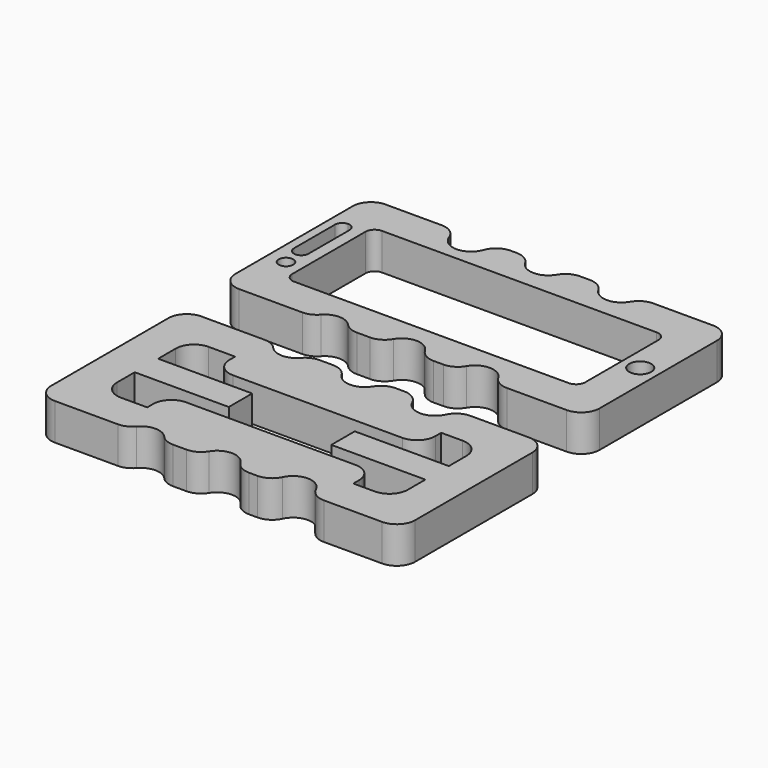
from build123d import *

# Parameters (mm, degrees)
F0_R     = 2
F0_R_2   = 3
F1_DEPTH = 10


with BuildPart() as f1:
    # F0 (on Top) → F1 (new body)
    with BuildSketch(Plane.XY):
        with BuildLine():
            Line((-31.744891, 31.276881), (-47.016129, 31.276881))
            ThreePointArc((-47.016129, 31.276881), (-50.551663, 29.812415), (-52.016129, 26.276881))
            Line((-52.016129, 26.276881), (-52.016129, -13.723119))
            ThreePointArc((-52.016129, -13.723119), (-50.551663, -17.258653), (-47.016129, -18.723119))
            Line((-47.016129, -18.723119), (-29.744406, -18.723119))
            ThreePointArc((-29.744406, -18.723119), (-27.709536, -18.290318), (-26.026944, -17.06684))
            ThreePointArc((-26.026944, -17.06684), (-22.309481, -15.410562), (-18.592019, -17.06684))
            ThreePointArc((-18.592019, -17.06684), (-16.909426, -18.290318), (-14.874556, -18.723119))
            Line((-14.874556, -18.723119), (-11.263087, -18.723119))
            ThreePointArc((-11.263087, -18.723119), (-8.763087, -18.053246), (-6.93296, -16.223119))
            ThreePointArc((-6.93296, -16.223119), (-2.602833, -13.723119), (1.727294, -16.223119))
            ThreePointArc((1.727294, -16.223119), (3.557421, -18.053246), (6.057421, -18.723119))
            Line((6.057421, -18.723119), (8.736913, -18.723119))
            ThreePointArc((8.736913, -18.723119), (11.236913, -18.053246), (13.06704, -16.223119))
            ThreePointArc((13.06704, -16.223119), (17.397167, -13.723119), (21.727294, -16.223119))
            ThreePointArc((21.727294, -16.223119), (23.557421, -18.053246), (26.057421, -18.723119))
            Line((26.057421, -18.723119), (42.397167, -18.723119))
            ThreePointArc((42.397167, -18.723119), (45.932701, -17.258653), (47.397167, -13.723119))
            Line((47.397167, -13.723119), (47.397167, 26.276881))
            ThreePointArc((47.397167, 26.276881), (45.932701, 29.812415), (42.397167, 31.276881))
            Line((42.397167, 31.276881), (26.057421, 31.276881))
            ThreePointArc((26.057421, 31.276881), (23.557421, 30.607008), (21.727294, 28.776881))
            ThreePointArc((21.727294, 28.776881), (17.397167, 26.276881), (13.06704, 28.776881))
            ThreePointArc((13.06704, 28.776881), (11.236913, 30.607008), (8.736913, 31.276881))
            Line((8.736913, 31.276881), (6.057421, 31.276881))
            ThreePointArc((6.057421, 31.276881), (3.557421, 30.607008), (1.727294, 28.776881))
            ThreePointArc((1.727294, 28.776881), (-2.602833, 26.276881), (-6.93296, 28.776881))
            ThreePointArc((-6.93296, 28.776881), (-8.763087, 30.607008), (-11.263087, 31.276881))
            Line((-11.263087, 31.276881), (-12.874071, 31.276881))
            ThreePointArc((-12.874071, 31.276881), (-15.765317, 30.356182), (-17.591776, 27.93316))
            ThreePointArc((-17.591776, 27.93316), (-22.309481, 24.589438), (-27.027186, 27.93316))
            ThreePointArc((-27.027186, 27.93316), (-28.853645, 30.356182), (-31.744891, 31.276881))
        make_face()
        with Locations((-47.016129, -2.723119)):
            Circle(F0_R, mode=Mode.SUBTRACT)
        with BuildLine():
            ThreePointArc((-47.648095, 1.276881), (-49.062308, 1.862667), (-49.648095, 3.276881))
            Line((-49.648095, 3.276881), (-49.648095, 17.276881))
            ThreePointArc((-49.648095, 17.276881), (-49.062308, 18.691095), (-47.648095, 19.276881))
            ThreePointArc((-47.648095, 19.276881), (-46.233881, 18.691095), (-45.648095, 17.276881))
            Line((-45.648095, 17.276881), (-45.648095, 3.276881))
            ThreePointArc((-45.648095, 3.276881), (-46.233881, 1.862667), (-47.648095, 1.276881))
        make_face(mode=Mode.SUBTRACT)
        with BuildLine():
            Line((-42.516129, -6.223119), (-42.516129, 18.776881))
            ThreePointArc((-42.516129, 18.776881), (-41.783896, 20.544648), (-40.016129, 21.276881))
            Line((-40.016129, 21.276881), (34.983871, 21.276881))
            ThreePointArc((34.983871, 21.276881), (36.751638, 20.544648), (37.483871, 18.776881))
            Line((37.483871, 18.776881), (37.483871, -6.223119))
            ThreePointArc((37.483871, -6.223119), (36.751638, -7.990886), (34.983871, -8.723119))
            Line((34.983871, -8.723119), (-40.016129, -8.723119))
            ThreePointArc((-40.016129, -8.723119), (-41.783896, -7.990886), (-42.516129, -6.223119))
        make_face(mode=Mode.SUBTRACT)
        with Locations((42.483871, 6.276881)):
            Circle(F0_R_2, mode=Mode.SUBTRACT)
        with BuildLine():
            Line((-28.193538, -33.613396), (-45.408177, -33.613396))
            ThreePointArc((-45.408177, -33.613396), (-48.943711, -35.077862), (-50.408177, -38.613396))
            Line((-50.408177, -38.613396), (-50.408177, -43.613396))
            Line((-50.408177, -43.613396), (-50.408177, -73.613396))
            Line((-50.408177, -73.613396), (-50.408177, -78.613396))
            ThreePointArc((-50.408177, -78.613396), (-48.943711, -82.14893), (-45.408177, -83.613396))
            Line((-45.408177, -83.613396), (-28.193538, -83.613396))
            ThreePointArc((-28.193538, -83.613396), (-26.126502, -83.166127), (-24.429275, -81.904341))
            ThreePointArc((-24.429275, -81.904341), (-20.665012, -80.195287), (-16.900749, -81.904341))
            ThreePointArc((-16.900749, -81.904341), (-15.203521, -83.166127), (-13.136486, -83.613396))
            Line((-13.136486, -83.613396), (-9.465551, -83.613396))
            ThreePointArc((-9.465551, -83.613396), (-7.01694, -82.972789), (-5.195769, -81.215119))
            ThreePointArc((-5.195769, -81.215119), (-0.925987, -78.816841), (3.343795, -81.215119))
            ThreePointArc((3.343795, -81.215119), (5.164967, -82.972789), (7.613577, -83.613396))
            Line((7.613577, -83.613396), (9.937365, -83.613396))
            ThreePointArc((9.937365, -83.613396), (12.627289, -82.828168), (14.472332, -80.719119))
            ThreePointArc((14.472332, -80.719119), (19.007299, -77.824843), (23.542267, -80.719119))
            ThreePointArc((23.542267, -80.719119), (25.38731, -82.828168), (28.077234, -83.613396))
            Line((28.077234, -83.613396), (43.944726, -83.613396))
            ThreePointArc((43.944726, -83.613396), (47.48026, -82.14893), (48.944726, -78.613396))
            Line((48.944726, -78.613396), (48.944726, -38.613396))
            ThreePointArc((48.944726, -38.613396), (47.48026, -35.077862), (43.944726, -33.613396))
            Line((43.944726, -33.613396), (28.077234, -33.613396))
            ThreePointArc((28.077234, -33.613396), (25.38731, -34.398623), (23.542267, -36.507672))
            ThreePointArc((23.542267, -36.507672), (19.007299, -39.401949), (14.472332, -36.507672))
            ThreePointArc((14.472332, -36.507672), (12.627289, -34.398623), (9.937365, -33.613396))
            Line((9.937365, -33.613396), (7.613577, -33.613396))
            ThreePointArc((7.613577, -33.613396), (5.164967, -34.254003), (3.343795, -36.011673))
            ThreePointArc((3.343795, -36.011673), (-0.925987, -38.40995), (-5.195769, -36.011673))
            ThreePointArc((-5.195769, -36.011673), (-7.01694, -34.254003), (-9.465551, -33.613396))
            Line((-9.465551, -33.613396), (-13.136486, -33.613396))
            ThreePointArc((-13.136486, -33.613396), (-15.203521, -34.060664), (-16.900749, -35.32245))
            ThreePointArc((-16.900749, -35.32245), (-20.665012, -37.031504), (-24.429275, -35.32245))
            ThreePointArc((-24.429275, -35.32245), (-26.126502, -34.060664), (-28.193538, -33.613396))
        make_face()
        with BuildLine():
            Line((-40.408177, -54.613396), (-40.408177, -48.613396))
            ThreePointArc((-40.408177, -48.613396), (-38.943711, -45.077862), (-35.408177, -43.613396))
            Line((-35.408177, -43.613396), (-28.193538, -43.613396))
            Line((-28.193538, -43.613396), (-28.193538, -45.613396))
            ThreePointArc((-28.193538, -45.613396), (-26.729071, -49.14893), (-23.193538, -50.613396))
            Line((-23.193538, -50.613396), (0, -50.613396))
            Line((0, -50.613396), (23.077234, -50.613396))
            ThreePointArc((23.077234, -50.613396), (26.612768, -49.14893), (28.077234, -45.613396))
            Line((28.077234, -45.613396), (28.077234, -43.613396))
            Line((28.077234, -43.613396), (33.944726, -43.613396))
            ThreePointArc((33.944726, -43.613396), (37.48026, -45.077862), (38.944726, -48.613396))
            Line((38.944726, -48.613396), (38.944726, -54.613396))
            Line((38.944726, -54.613396), (26.944726, -54.613396))
            Line((26.944726, -54.613396), (13.268275, -54.613396))
            Line((13.268275, -54.613396), (13.268275, -62.613396))
            Line((13.268275, -62.613396), (26.944726, -62.613396))
            Line((26.944726, -62.613396), (38.944726, -62.613396))
            Line((38.944726, -62.613396), (38.944726, -68.613396))
            ThreePointArc((38.944726, -68.613396), (37.48026, -72.14893), (33.944726, -73.613396))
            Line((33.944726, -73.613396), (28.077234, -73.613396))
            Line((28.077234, -73.613396), (28.077234, -71.613396))
            ThreePointArc((28.077234, -71.613396), (26.612768, -68.077862), (23.077234, -66.613396))
            Line((23.077234, -66.613396), (0, -66.613396))
            Line((0, -66.613396), (-23.193538, -66.613396))
            ThreePointArc((-23.193538, -66.613396), (-26.729071, -68.077862), (-28.193538, -71.613396))
            Line((-28.193538, -71.613396), (-28.193538, -73.613396))
            Line((-28.193538, -73.613396), (-35.408177, -73.613396))
            ThreePointArc((-35.408177, -73.613396), (-38.943711, -72.14893), (-40.408177, -68.613396))
            Line((-40.408177, -68.613396), (-40.408177, -62.613396))
            Line((-40.408177, -62.613396), (-28.408177, -62.613396))
            Line((-28.408177, -62.613396), (-14.731725, -62.613396))
            Line((-14.731725, -62.613396), (-14.731725, -54.613396))
            Line((-14.731725, -54.613396), (-28.408177, -54.613396))
            Line((-28.408177, -54.613396), (-40.408177, -54.613396))
        make_face(mode=Mode.SUBTRACT)
    extrude(amount=F1_DEPTH)


solid = f1.part
